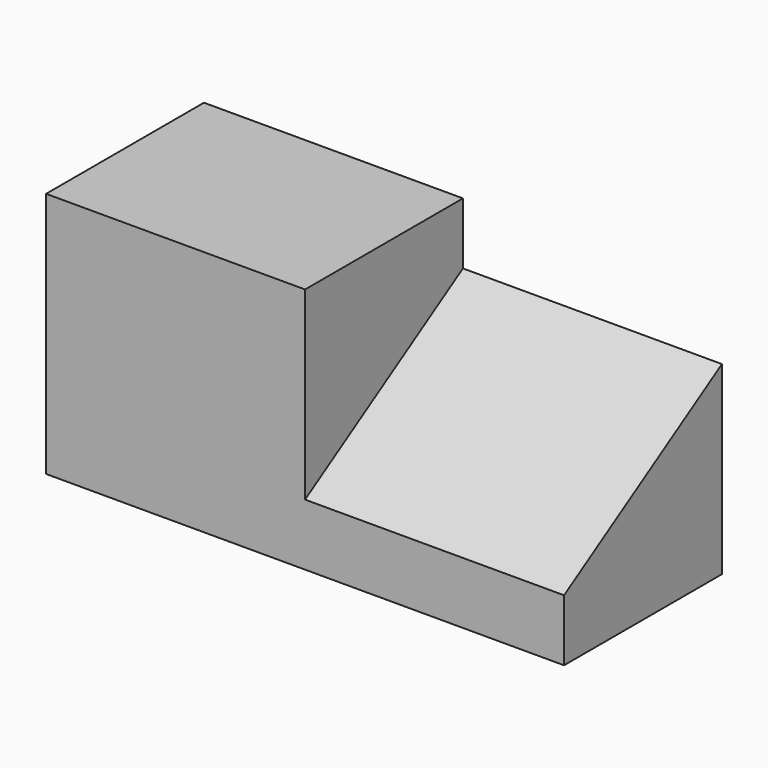
from build123d import *

# Parameters (mm, degrees)
F0_W     = 133.35
F0_H     = 63.5
F1_DEPTH = 50.8
F3_DEPTH = 66.675


with BuildPart() as f1:
    # F0 (on Front) → F1 (new body)
    with BuildSketch(Plane.XZ):
        with Locations((1.428753, -7.438571)):
            Rectangle(F0_W, F0_H)
    extrude(amount=F1_DEPTH)

    # F2 (on face) → F3 (cut)
    with BuildSketch(Plane.YZ.offset(68.103753)):
        Polygon((-50.8, 24.311429), (-50.8, -23.313571), (0, 8.436429), (0, 24.311429), align=None)
    extrude(amount=-F3_DEPTH, mode=Mode.SUBTRACT)


solid = f1.part
